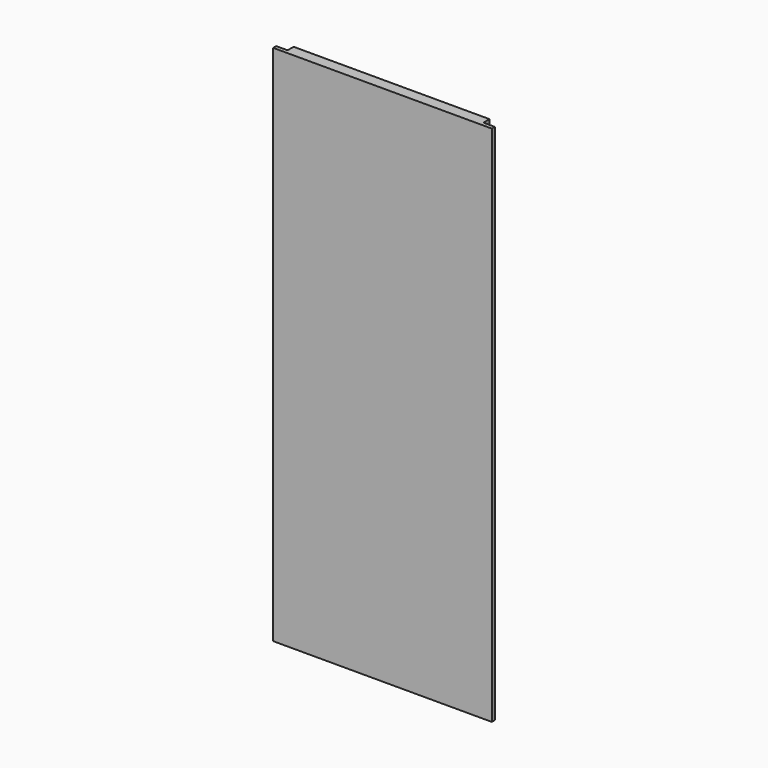
from build123d import *

# Parameters (mm, degrees)
F0_W     = 366.7125
F0_H     = 438.15
F1_DEPTH = 9.525
F2_W     = 366.7125
F2_H     = 19.05
F3_DEPTH = 6.35
F4_W     = 19.05
F4_H     = 738.1875
F4_H_2   = 138.1125
F5_DEPTH = 12.7


with BuildPart() as f1:
    # F0 (on Front) → F1 (new body, symmetric)
    with BuildSketch(Plane.XZ):
        with Locations((-64.5477453259, 219.075)):
            Rectangle(F0_W, F0_H)
        with Locations((-64.5477453259, -219.075)):
            Rectangle(F0_W, F0_H)
    extrude(amount=F1_DEPTH, both=True)

    # F2 (on face) → F3 (cut)
    with BuildSketch(Plane(origin=(0, 9.525, 0), x_dir=(-1, 0, 0), z_dir=(0, 1, 0))):
        with Locations((64.5477453259, 309.5625)):
            Rectangle(F2_W, F2_H)
    extrude(amount=-F3_DEPTH, mode=Mode.SUBTRACT)

    # F4 (on face) → F5 (cut)
    with BuildSketch(Plane(origin=(0, 9.525, 0), x_dir=(-1, 0, 0), z_dir=(0, 1, 0))):
        with Locations((-109.2835046741, -69.05625)):
            Rectangle(F4_W, F4_H)
        with Locations((-109.2835046741, 369.09375)):
            Rectangle(F4_W, F4_H_2)
        with Locations((238.3789953259, 369.09375)):
            Rectangle(F4_W, F4_H_2)
        with Locations((238.3789953259, -69.05625)):
            Rectangle(F4_W, F4_H)
    extrude(amount=-F5_DEPTH, mode=Mode.SUBTRACT)


solid = f1.part
